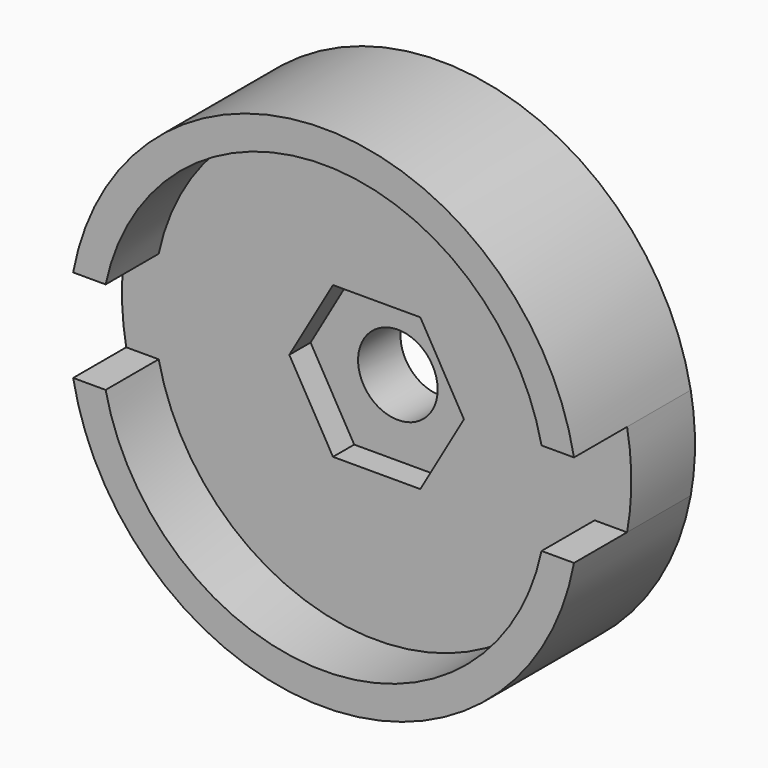
from build123d import *

# Parameters (mm, degrees)
F1_DEPTH = 5.5
F0_R     = 1.5
F2_DEPTH = 3
F3_R     = 1.5
F4_DEPTH = 1


with BuildPart() as f1:
    # F0 (on Front) → F1 (new body)
    with BuildSketch(Plane.XZ):
        with BuildLine():
            ThreePointArc((9.4391472072, 1.75), (0, 9.6), (-9.4391472072, 1.75))
            Line((-9.4391472072, 1.75), (-8.215686216, 1.75))
            ThreePointArc((-8.215686216, 1.75), (0, 8.4), (8.215686216, 1.75))
            Line((8.215686216, 1.75), (9.4391472072, 1.75))
        make_face()
    extrude(amount=F1_DEPTH)



with BuildPart() as f1b:
    # F0 (on Front) → F1, piece 2 (new body)
    with BuildSketch(Plane.XZ):
        with BuildLine():
            Line((-8.215686216, -1.75), (-9.4391472072, -1.75))
            ThreePointArc((-9.4391472072, -1.75), (0, -9.6), (9.4391472072, -1.75))
            Line((9.4391472072, -1.75), (8.215686216, -1.75))
            ThreePointArc((8.215686216, -1.75), (0, -8.4), (-8.215686216, -1.75))
        make_face()
    extrude(amount=F1_DEPTH)


with BuildPart() as f1_1:
    add(f1.part)

    add(f1b.part)  # F2 merges F1b
    # F0 (on Front) → F2 (join)
    with BuildSketch(Plane.XZ):
        with BuildLine():
            Line((8.215686216, -1.75), (9.4391472072, -1.75))
            ThreePointArc((9.4391472072, -1.75), (9.6, 0), (9.4391472072, 1.75))
            Line((9.4391472072, 1.75), (8.215686216, 1.75))
            ThreePointArc((8.215686216, 1.75), (8.3537944736, 0.8798396972), (8.4, 0))
            ThreePointArc((8.4, 0), (8.3537944736, -0.8798396972), (8.215686216, -1.75))
        make_face()
        with BuildLine():
            ThreePointArc((-9.4391472072, 1.75), (-9.6, 0), (-9.4391472072, -1.75))
            Line((-9.4391472072, -1.75), (-8.215686216, -1.75))
            ThreePointArc((-8.215686216, -1.75), (-8.4, 0), (-8.215686216, 1.75))
            Line((-8.215686216, 1.75), (-9.4391472072, 1.75))
        make_face()
        with BuildLine():
            ThreePointArc((-8.215686216, 1.75), (-8.4, 0), (-8.215686216, -1.75))
            ThreePointArc((-8.215686216, -1.75), (0, -8.4), (8.215686216, -1.75))
            ThreePointArc((8.215686216, -1.75), (8.3537944736, -0.8798396972), (8.4, 0))
            ThreePointArc((8.4, 0), (8.3537944736, 0.8798396972), (8.215686216, 1.75))
            ThreePointArc((8.215686216, 1.75), (0, 8.4), (-8.215686216, 1.75))
        make_face()
        Circle(F0_R, mode=Mode.SUBTRACT)
    extrude(amount=F2_DEPTH)

    # F3 (on face) → F4 (cut)
    with BuildSketch(Plane.XZ.offset(3)):
        Polygon((1.6454482672, -2.85), (3.2908965344, 0), (1.6454482672, 2.85), (-1.6454482672, 2.85), (-3.2908965344, 0), (-1.6454482672, -2.85), align=None)
        Circle(F3_R, mode=Mode.SUBTRACT)
    extrude(amount=-F4_DEPTH, mode=Mode.SUBTRACT)


solid = f1_1.part
